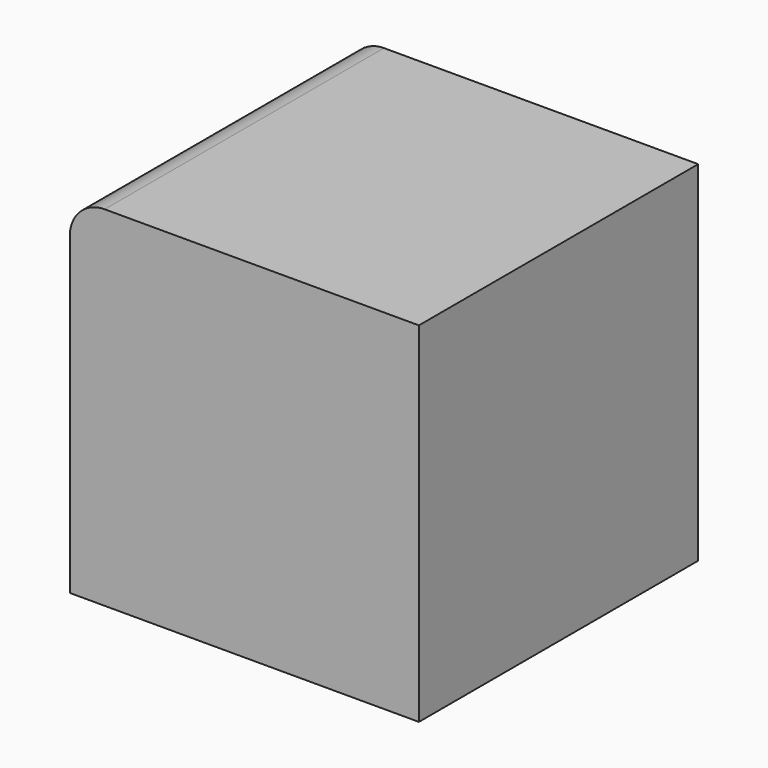
from build123d import *

# Parameters (mm, degrees)
BOX_W     = 10
BOX_H     = 10
BOX_DEPTH = 10
FILLET_R  = 1


with BuildPart() as part:
    # Box → Box (new body)
    with BuildSketch(Plane.XY):
        with Locations((5, 5)):
            Rectangle(BOX_W, BOX_H)
    extrude(amount=BOX_DEPTH)

    # Fillet
    fillet_edges = [part.edges().sort_by_distance(p)[0] for p in [
        (0, 5, 10),
    ]]
    fillet(fillet_edges, radius=FILLET_R)


solid = part.part
